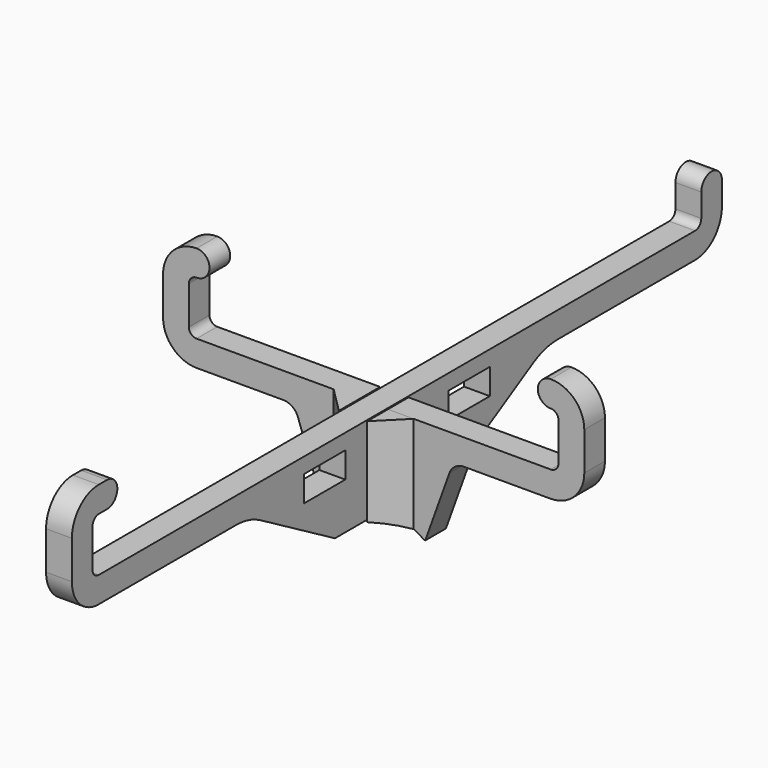
from build123d import *

# Parameters (mm, degrees)
SKETCH_W     = 10
SKETCH_H     = 5
PAD_DEPTH    = 2.5
PAD001_DEPTH = 2.5
PAD002_DEPTH = 20
POCKET_DEPTH = 10


with BuildPart() as vertical:
    # Sketch → Pad (new body, symmetric)
    with BuildSketch(Plane.YZ):
        with BuildLine():
            Line((78.7, 18.500001), (78.7, 23.000006))
            ThreePointArc((78.7, 23.000006), (76.199997, 25.500005), (73.7, 23))
            Line((73.7, 18.500007), (73.7, 23))
            ThreePointArc((72.200003, 17), (73.260664, 17.439343), (73.7, 18.500007))
            Line((-72.200002, 17), (72.200003, 17))
            ThreePointArc((-73.7, 18.500007), (-73.260663, 17.439343), (-72.200002, 17))
            Line((-73.7, 25.899992), (-73.7, 18.500007))
            ThreePointArc((-72.200002, 27.4), (-73.260664, 26.960657), (-73.7, 25.899992))
            Line((-72.200002, 27.4), (-70.200002, 27.4))
            ThreePointArc((-70.200002, 27.4), (-67.700002, 29.9), (-70.200002, 32.4))
            Line((-70.200002, 32.4), (-72.200001, 32.4))
            ThreePointArc((-72.200001, 32.4), (-76.796194, 30.496194), (-78.7, 25.9))
            Line((-78.7, 18.500007), (-78.7, 25.9))
            ThreePointArc((-78.7, 18.500007), (-76.796197, 13.903808), (-72.2, 12))
            Line((-72.2, 12), (-38.960751, 12))
            ThreePointArc((-33, 10.392302), (-35.873874, 11.59102), (-38.960751, 12))
            Line((-15, 0), (-33, 10.392302))
            Line((-15, 0), (-2.75, 0))
            Line((-2.75, 0), (-2.75, 8.7))
            Line((-2.75, 8.7), (2.75, 8.7))
            Line((2.75, 8.7), (2.75, 0))
            Line((2.75, 0), (15, 0))
            Line((15, 0), (33, 10.392302))
            ThreePointArc((38.960751, 12), (35.873874, 11.59102), (33, 10.392302))
            Line((38.960751, 12), (72.2, 12))
            ThreePointArc((72.2, 12), (76.796194, 13.903806), (78.7, 18.500001))
        make_face()
        with Locations((-17.5, 11.5)):
            Rectangle(SKETCH_W, SKETCH_H, mode=Mode.SUBTRACT)
        with Locations((17.5, 11.5)):
            Rectangle(SKETCH_W, SKETCH_H, mode=Mode.SUBTRACT)
    extrude(amount=PAD_DEPTH, both=True)


with BuildPart() as fusion:
    # Sketch001 → Pad001 (new body, symmetric)
    with BuildSketch(Plane.XZ):
        with BuildLine():
            Line((17.5, 11.999985), (34.300008, 12))
            ThreePointArc((34.300008, 12), (38.896196, 13.903808), (40.8, 18.499998))
            Line((40.8, 25.899974), (40.8, 18.499998))
            ThreePointArc((40.8, 25.899974), (38.896194, 30.496166), (34.300002, 32.399972))
            ThreePointArc((34.300002, 32.399972), (31.800002, 29.899972), (34.300002, 27.399972))
            ThreePointArc((35.8, 25.899974), (35.36066, 26.960632), (34.300002, 27.399972))
            Line((35.8, 18.499998), (35.8, 25.899974))
            ThreePointArc((34.300002, 17), (35.36066, 17.43934), (35.8, 18.499998))
            Line((2.75, 17), (34.300002, 17))
            Line((2.75, 8.3), (2.75, 17))
            Line((-2.75, 8.3), (2.75, 8.3))
            Line((-2.75, 16.999985), (-2.75, 8.3))
            Line((-34.3, 16.999985), (-2.75, 16.999985))
            ThreePointArc((-35.8, 18.499998), (-35.360665, 17.439329), (-34.3, 16.999985))
            Line((-35.8, 18.499998), (-35.8, 25.899974))
            ThreePointArc((-34.300002, 27.399985), (-35.360665, 26.960641), (-35.8, 25.899974))
            ThreePointArc((-34.300002, 27.399985), (-31.800002, 29.899985), (-34.300002, 32.399985))
            ThreePointArc((-34.300002, 32.399985), (-38.896199, 30.496175), (-40.8, 25.899974))
            Line((-40.8, 25.899974), (-40.8, 18.499998))
            ThreePointArc((-40.8, 18.499998), (-38.896199, 13.903797), (-34.300002, 11.999985))
            Line((-34.300002, 11.999985), (-17.5, 11.999985))
            ThreePointArc((-14.676752, 10.014516), (-15.774253, 11.45392), (-17.5, 11.999985))
            Line((-14.676752, 10.014516), (-10, -3))
            Line((-10, -3), (10, -3))
            Line((10, -3), (14.676758, 10.014525))
            ThreePointArc((17.5, 11.999985), (15.774258, 11.453922), (14.676758, 10.014525))
        make_face()
    extrude(amount=PAD001_DEPTH, both=True)

    # Sketch002 → Pad002 (new body)
    with BuildSketch(Plane(origin=(0, 0, 16.999985), x_dir=(-1, 0, 0), z_dir=(0, 0, 1))):
        Polygon((-7.75, 2.5), (-2.75, 7.5), (-2.75, 2.5), align=None)
        Polygon((2.75, 7.5), (2.75, 2.5), (7.75, 2.5), align=None)
    extrude(amount=-PAD002_DEPTH)

    # Sketch003 → Pocket (cut)
    with BuildSketch(Plane(origin=(0, 2.5, 0), x_dir=(1, 0, 0), z_dir=(0, 1, 0))):
        with BuildLine():
            ThreePointArc((-10, 3.138593), (0, 0), (10, 3.138593))
            Line((-10, 3.138593), (10, 3.138593))
        make_face()
    extrude(amount=-POCKET_DEPTH, mode=Mode.SUBTRACT)

    # Fusion: union Vertical
    add(vertical.part)


solid = fusion.part
